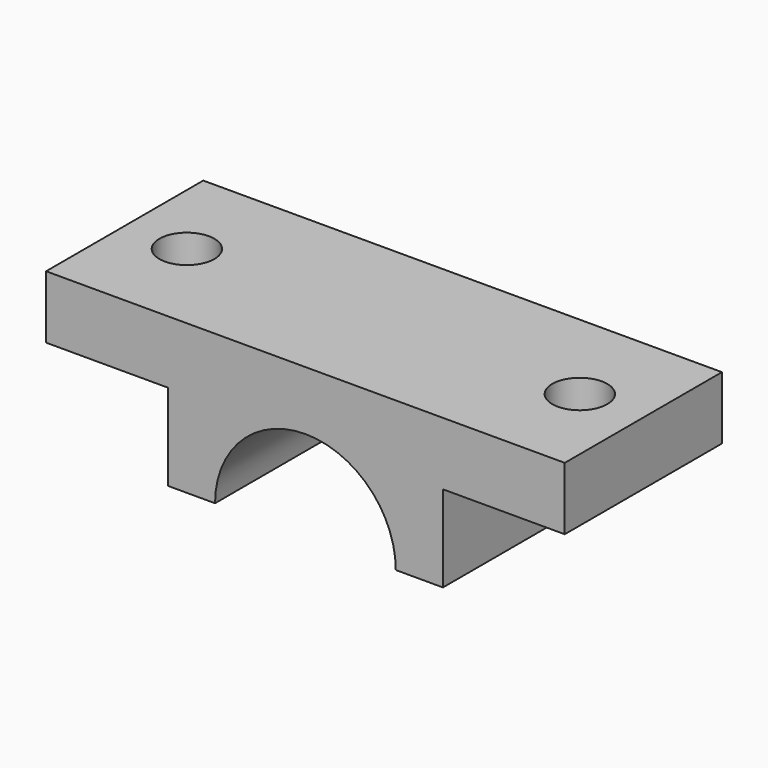
from build123d import *

# Parameters (mm, degrees)
F1_DEPTH = 50
F2_R     = 7
F3_DEPTH = 16


with BuildPart() as f1:
    # F0 (on Front) → F1 (new body)
    with BuildSketch(Plane.XZ):
        with BuildLine():
            Line((-35, 22), (-35, 0))
            Line((-35, 0), (-23, 0))
            ThreePointArc((-23, 0), (0, 23), (23, 0))
            Line((23, 0), (35, 0))
            Line((35, 0), (35, 22))
            Line((35, 22), (66, 22))
            Line((66, 22), (66, 38))
            Line((66, 38), (-66, 38))
            Line((-66, 38), (-66, 22))
            Line((-66, 22), (-35, 22))
        make_face()
    extrude(amount=F1_DEPTH)

    # F2 (on face) → F3 (cut)
    with BuildSketch(Plane.XY.offset(38)):
        with Locations((49.832433, -25)):
            Circle(F2_R)
        with Locations((-50.167567, -25)):
            Circle(F2_R)
    extrude(amount=-F3_DEPTH, mode=Mode.SUBTRACT)


solid = f1.part
